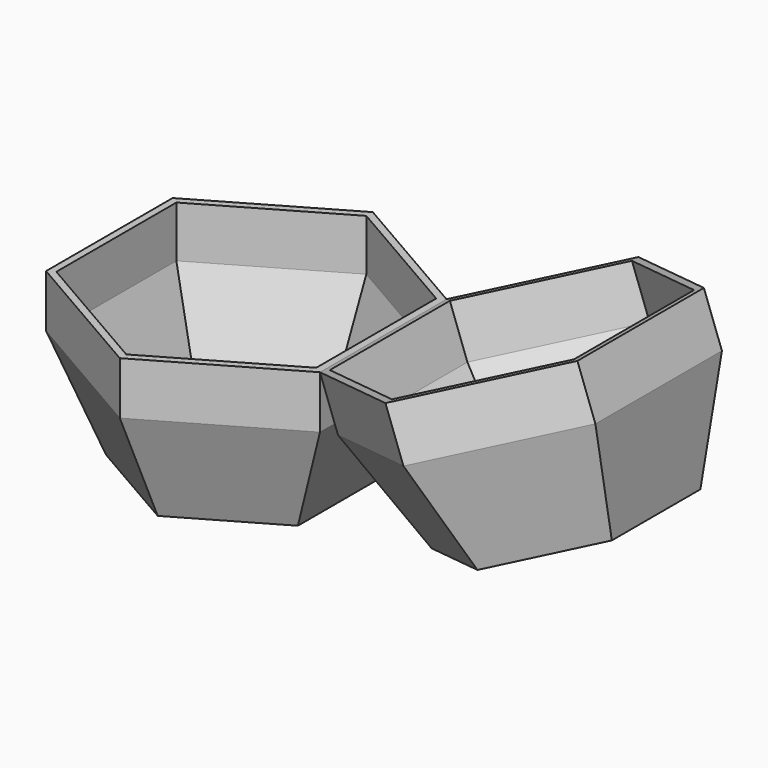
from build123d import *

# Parameters (mm, degrees)
F4_DEPTH = 15
F5_T     = -2
F14_T    = -2


with BuildPart() as f3:
    # F0 (on Top) → F3 section 0
    with BuildSketch(Plane.XY):
        Polygon((27.2798002192, 15.75), (0, 31.5), (-27.2798002192, 15.75), (-27.2798002192, -15.75), (0, -31.5), (27.2798002192, -15.75), align=None)
    # F2 (on offset) → F3 section 1
    with BuildSketch(Plane.XY.offset(30)):
        Polygon((38.9711431703, 22.5), (0, 45), (-38.9711431703, 22.5), (-38.9711431703, -22.5), (0, -45), (38.9711431703, -22.5), align=None)
    loft()

    # F4 (add): a face of the model
    f4_faces = [f3.faces().sort_by_distance(p)[0] for p in [
        (0, 0, 30),
    ]]
    extrude(f4_faces, amount=F4_DEPTH)

    # F5
    f5_openings = [f3.faces().sort_by_distance(p)[0] for p in [
        (0, 0, 45),
    ]]
    offset(amount=F5_T, openings=f5_openings, kind=Kind.INTERSECTION)


with BuildPart() as f12:
    # F7 (on face) → F12 section 0
    with BuildSketch(Plane(origin=(-9.9039634666, 0, 27.2109159876), x_dir=(0.9396926208, 0, 0.3420201433), z_dir=(0.3420201433, 0, -0.9396926208))):
        Polygon((129.954088451, 22.5), (90.9829452807, 45), (52.0118021104, 22.5), (52.0118021104, -22.5), (90.9829452807, -45), (129.954088451, -22.5), align=None)
    # F9 (on offset) → F12 section 1
    with BuildSketch(Plane(origin=(-4.7736613167, 0, 13.1155266758), x_dir=(0.9396926208, 0, 0.3420201433), z_dir=(0.3420201433, 0, -0.9396926208))):
        Polygon((129.954088451, 22.5), (90.9829452807, 45), (52.0118021104, 22.5), (52.0118021104, -22.5), (90.9829452807, -45), (129.954088451, -22.5), align=None)
    loft()

    # F12_face (on face) → F13 section 0
    with BuildSketch(Plane(origin=(80.7223409809, 0, 44.2335266609), x_dir=(1, 0, 0), z_dir=(0.3420201433, 0, -0.9396926208))):
        Polygon((38.9711431703, 22.5), (0, 45), (-38.9711431703, 22.5), (-38.9711431703, -22.5), (0, -45), (38.9711431703, -22.5), align=None)
    # F11 (on offset) → F13 section 1
    with BuildSketch(Plane(origin=(5.4869429831, 0, -15.0752519478), x_dir=(0.9396926208, 0, 0.3420201433), z_dir=(0.3420201433, 0, -0.9396926208))):
        Polygon((118.2627454999, 15.75), (90.9829452807, 31.5), (63.7031450615, 15.75), (63.7031450615, -15.75), (90.9829452807, -31.5), (118.2627454999, -15.75), align=None)
    loft()

    # F14
    f14_openings = [f12.faces().sort_by_distance(p)[0] for p in [
        (75.592039, 0, 58.328916),
    ]]
    offset(amount=F14_T, openings=f14_openings, kind=Kind.INTERSECTION)


solid = Compound([f3.part, f12.part])
